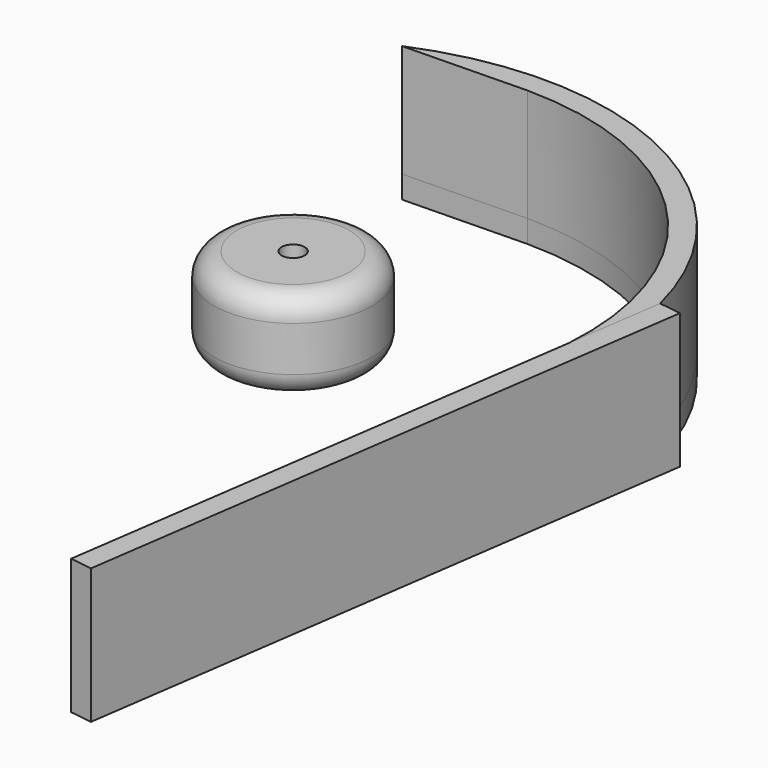
from build123d import *

# Parameters (mm, degrees)
F0_R     = 44.45
F1_DEPTH = 50.8
F2_R     = 12.7
F3_R     = 6.484616496
F4_DEPTH = 76.2
F6_DEPTH = 63.5
F7_DEPTH = 12.7
F8_W     = 55.1167010857
F8_H     = 63.5
F9_DEPTH = 12.7


with BuildPart() as f1:
    # F0 (on Top) → F1 (new body)
    with BuildSketch(Plane.XY):
        Circle(F0_R)
    extrude(amount=F1_DEPTH)

    # F2
    f2_edges = [f1.edges().sort_by_distance(p)[0] for p in [
        (44.45, 0, 25.4),
        (-44.45, 0, 0),
        (-44.45, 0, 50.8),
    ]]
    fillet(f2_edges, radius=F2_R)

    # F3 (on face) → F4 (cut)
    with BuildSketch(Plane.XY.offset(50.8)):
        Circle(F3_R)
    extrude(amount=-F4_DEPTH, mode=Mode.SUBTRACT)


with BuildPart() as f6:
    # F5 (on Top) → F6 (new body)
    with BuildSketch(Plane.XY):
        with BuildLine():
            ThreePointArc((0, 165.1), (120.7588226786, 112.5847091984), (164.6952990237, -11.5528559021))
            Line((164.6952990237, -11.5528559021), (172.5206258367, 43.0055073325))
            ThreePointArc((172.5206258367, 43.0055073325), (79.292752248, 159.1398738247), (-69.5645559347, 163.6264421101))
            Line((-69.5645559347, 163.6264421101), (0, 165.1))
        make_face()
    extrude(amount=F6_DEPTH)


with BuildPart() as f7:
    # F7 (new): a face of the model
    f7_faces = [f6.part.faces().sort_by_distance(p)[0] for p in [
        (-34.8473665993, 167.4359620785, 0),
    ]]
    extrude(f7_faces, amount=F7_DEPTH)


with BuildPart() as f9:
    # F8 (on face) → F9 (new body)
    with BuildSketch(Plane(origin=(162.9990680345, -23.3790183934, 0), x_dir=(0.1419774163, 0.9898698971, 0), z_dir=(0.9898698971, -0.1419774163, 0))):
        with Locations((39.505539285, 31.75)):
            Rectangle(F8_W, F8_H)
        Polygon((-288.5361101722, 63.5), (-288.5361101722, -12.7), (67.0638898278, -12.7), (67.0638898278, 0), (11.9471887422, 0), (11.9471887422, 63.5), align=None)
    extrude(amount=F9_DEPTH)


solid = Compound([f1.part, f6.part, f7.part, f9.part])
